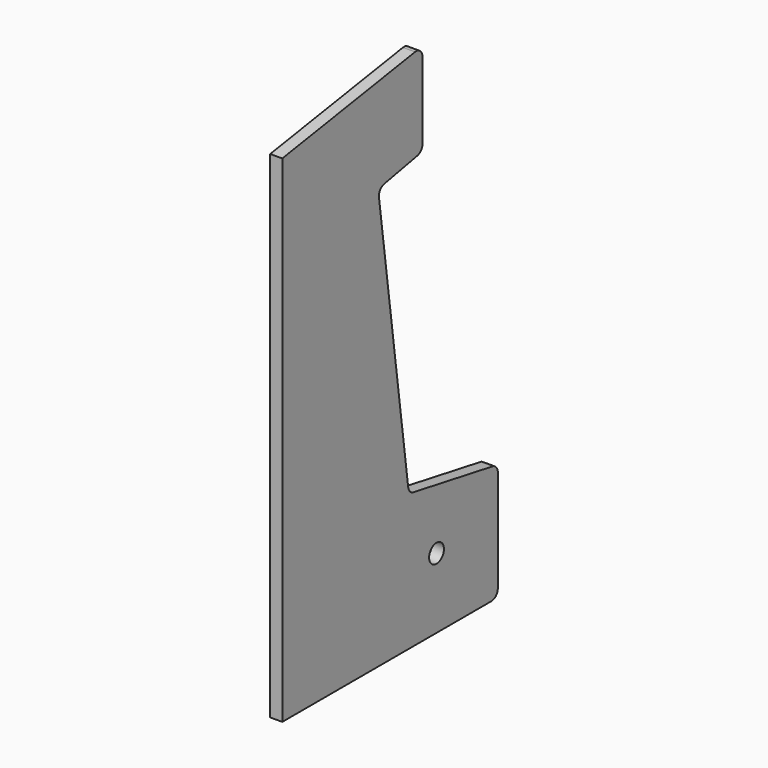
from build123d import *

# Parameters (mm, degrees)
F0_R     = 11.5
F1_DEPTH = 15
F2_ANGLE = 90
F3_R     = 10


with BuildPart() as f1:
    # F0 (on Front) → F1 (new body)
    with BuildSketch(Plane.XZ):
        Polygon((-81.4494020062, -100.8784402028), (252.5822216817, -100.8784402028), (252.5822216817, 514.1215597972), (35.2907867508, 548.5371421061), (35.2907867508, 433.5371421061), (104.0274621586, 420.2982050686), (56.4236834155, 68.4323046706), (-81.4494020062, 44.1215597972), align=None)
        with Locations((13.5479746163, -13.94874061)):
            Circle(F0_R, mode=Mode.SUBTRACT)
    extrude(amount=F1_DEPTH)


with BuildPart() as f1_1:
    # F2: moved
    add(f1.part.rotate(Axis((252.5822216817, -15, 206.6215597972), (0, 0, -1)), F2_ANGLE))

    # F3
    f3_edges = [f1_1.edges().sort_by_distance(p)[0] for p in [
        (260.082222, 202.291435, 548.537142),
        (260.082222, 202.291435, 433.537142),
        (260.082222, 133.55476, 420.298205),
        (260.082222, 181.158538, 68.432305),
        (260.082222, 319.031624, 44.12156),
        (260.082222, 319.031624, -100.87844),
    ]]
    fillet(f3_edges, radius=F3_R)


solid = f1_1.part
